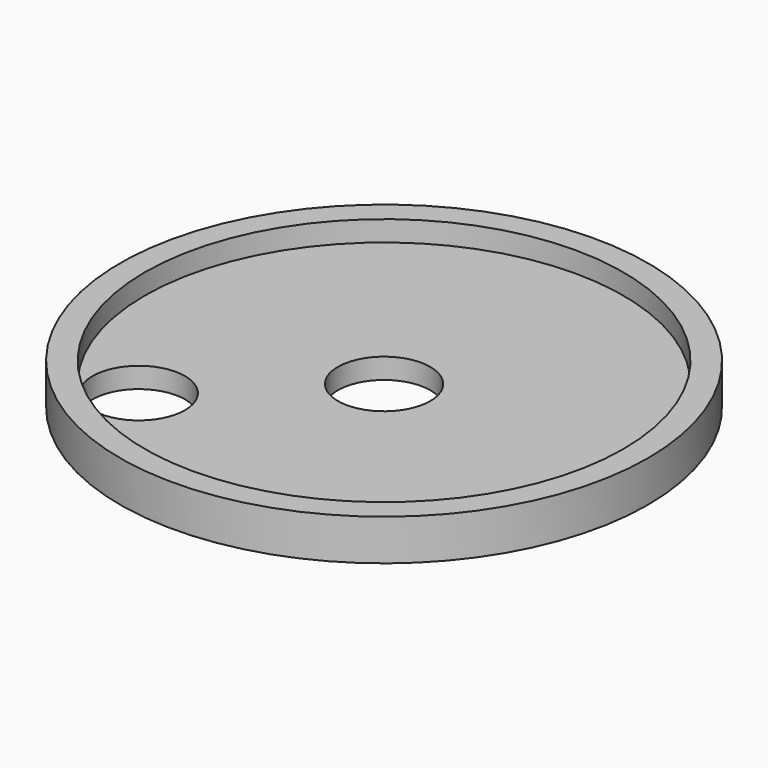
from build123d import *

# Parameters (mm, degrees)
F0_R     = 32.639
F0_R_2   = 29.591
F1_DEPTH = 5.08
F0_R_3   = 5.715
F2_DEPTH = 2.54


with BuildPart() as f1:
    # F0 (on Top) → F1 (new body)
    with BuildSketch(Plane.XY):
        Circle(F0_R)
        Circle(F0_R_2, mode=Mode.SUBTRACT)
    extrude(amount=F1_DEPTH)

    # F0 (on Top) → F2 (join)
    with BuildSketch(Plane.XY):
        Circle(F0_R_2)
        with Locations((-17.302921, -16.291201)):
            Circle(F0_R_3, mode=Mode.SUBTRACT)
        Circle(F0_R_3, mode=Mode.SUBTRACT)
    extrude(amount=F2_DEPTH)


solid = f1.part
